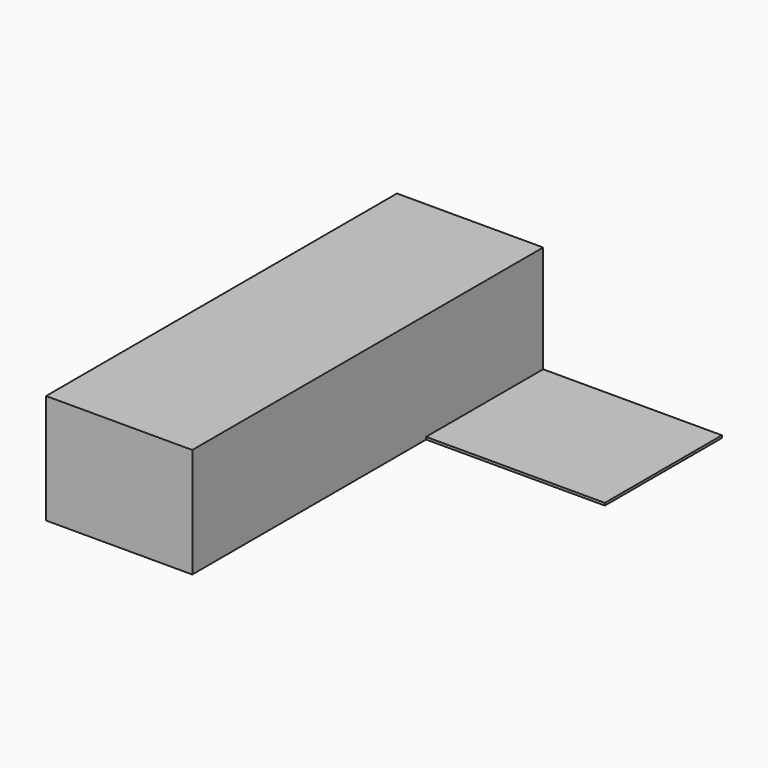
from build123d import *

# Parameters (mm, degrees)
F1_DEPTH = 45
F2_DEPTH = 1


with BuildPart() as f1:
    # F0 (on Top) → F1 (new body)
    with BuildSketch(Plane.XY):
        Polygon((-87.270744, 82.742989), (-147.270744, 82.742989), (-147.270744, -97.257011), (-87.270744, -97.257011), (-87.270744, 22.683688), align=None)
    extrude(amount=F1_DEPTH)

    # F0 (on Top) → F2 (join)
    with BuildSketch(Plane.XY):
        Polygon((-13.908014, 82.742989), (-87.270744, 82.742989), (-87.270744, 22.683688), (-67.270744, 22.683688), (-50.589379, 22.683688), (-29.065266, 22.683688), (-13.908014, 22.683688), align=None)
    extrude(amount=F2_DEPTH)


solid = f1.part
